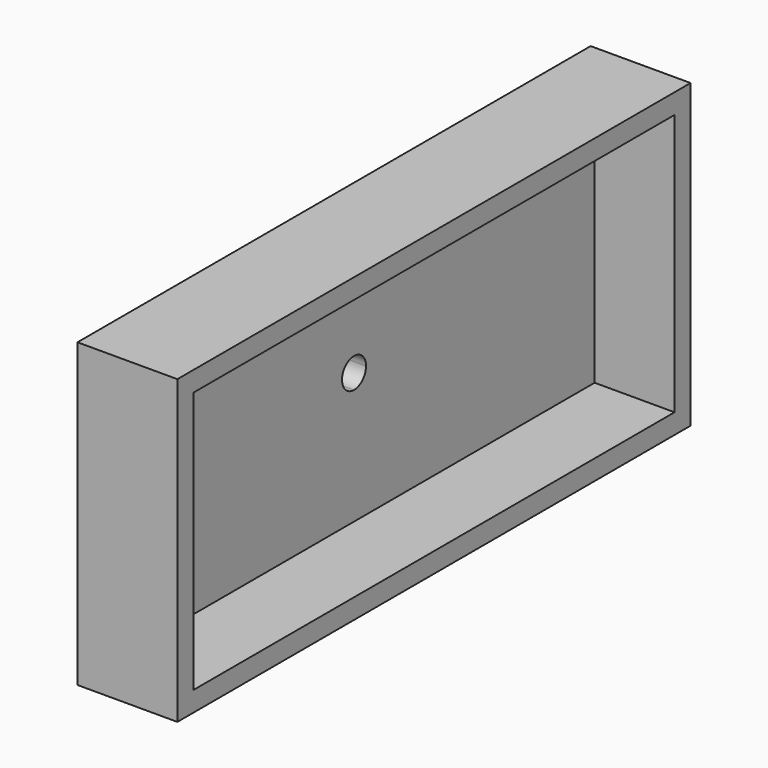
from build123d import *

# Parameters (mm, degrees)
F1_DEPTH = 2
F2_DEPTH = 10


with BuildPart() as f1:
    # F0 (on Right) → F1 (new body)
    with BuildSketch(Plane.YZ):
        Polygon((2, 0), (0, 0), (-30.1, 0), (-60.2, 0), (-62.2, 0), (-62.2, -2), (2, -2), align=None)
        Polygon((0, 26.2), (0, 0), (2, 0), (2, 28.2), (-30.1, 28.2), (-30.1, 26.2), align=None)
        with BuildLine():
            Line((-60.2, 0), (-30.1, 0))
            Line((-30.1, 0), (-30.1, 11.6))
            ThreePointArc((-30.1, 11.6), (-31.16066, 12.03934), (-31.6, 13.1))
            ThreePointArc((-31.6, 13.1), (-31.16066, 14.16066), (-30.1, 14.6))
            Line((-30.1, 14.6), (-30.1, 26.2))
            Line((-30.1, 26.2), (-60.2, 26.2))
            Line((-60.2, 26.2), (-60.2, 0))
        make_face()
        Polygon((-62.2, 0), (-60.2, 0), (-60.2, 26.2), (-30.1, 26.2), (-30.1, 28.2), (-62.2, 28.2), align=None)
        with BuildLine():
            Line((-60.2, 0), (-30.1, 0))
            Line((-30.1, 0), (-30.1, 11.6))
            ThreePointArc((-30.1, 11.6), (-31.16066, 12.03934), (-31.6, 13.1))
            ThreePointArc((-31.6, 13.1), (-31.16066, 14.16066), (-30.1, 14.6))
            Line((-30.1, 14.6), (-30.1, 26.2))
            Line((-30.1, 26.2), (-60.2, 26.2))
            Line((-60.2, 26.2), (-60.2, 0))
        make_face()
        with BuildLine():
            Line((-30.1, 0), (0, 0))
            Line((0, 0), (0, 26.2))
            Line((0, 26.2), (-30.1, 26.2))
            Line((-30.1, 26.2), (-30.1, 14.6))
            ThreePointArc((-30.1, 14.6), (-29.03934, 14.16066), (-28.6, 13.1))
            ThreePointArc((-28.6, 13.1), (-29.03934, 12.03934), (-30.1, 11.6))
            Line((-30.1, 11.6), (-30.1, 0))
        make_face()
    extrude(amount=F1_DEPTH)

    # F0 (on Right) → F2 (join)
    with BuildSketch(Plane.YZ):
        Polygon((0, 26.2), (0, 0), (2, 0), (2, 28.2), (-30.1, 28.2), (-30.1, 26.2), align=None)
        Polygon((2, 0), (0, 0), (-30.1, 0), (-60.2, 0), (-62.2, 0), (-62.2, -2), (2, -2), align=None)
        Polygon((-62.2, 0), (-60.2, 0), (-60.2, 26.2), (-30.1, 26.2), (-30.1, 28.2), (-62.2, 28.2), align=None)
    extrude(amount=F2_DEPTH)


solid = f1.part
